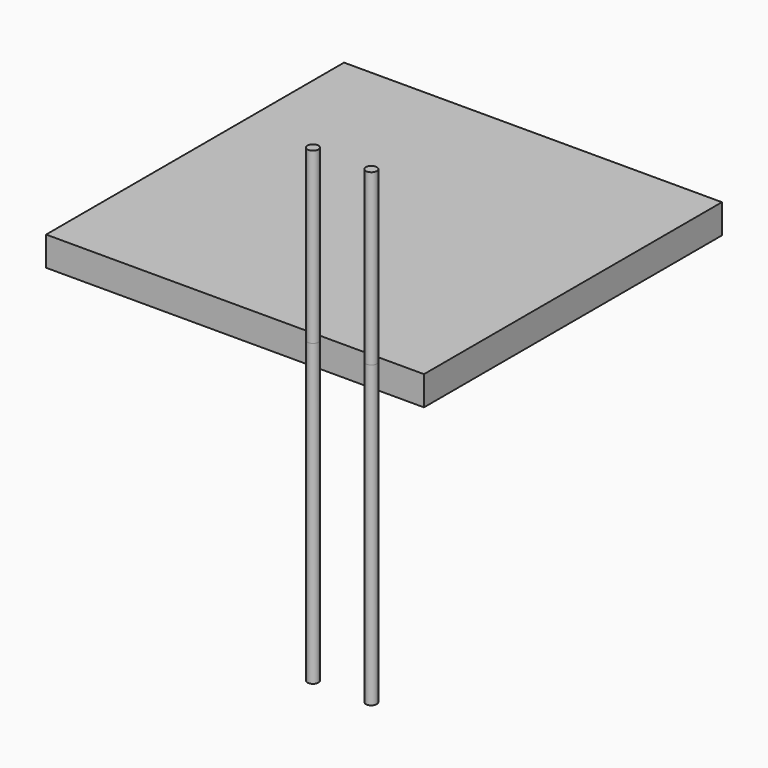
from build123d import *

# Parameters (mm, degrees)
F0_W     = 82.0087715983
F0_H     = 80.8207094669
F2_DEPTH = 65.024
F1_R     = 1.1777920209
F3_DEPTH = 56.642
F4_DEPTH = 58.674
F5_DEPTH = 36.83


with BuildPart() as f2:
    # F0 (on Top) → F2 (new body)
    with BuildSketch(Plane.XY):
        with Locations((-41.0043857992, 40.4103547335)):
            Rectangle(F0_W, F0_H)
    extrude(amount=F2_DEPTH)

    # F3 (add): a face of the model
    f3_faces = [f2.faces().sort_by_distance(p)[0] for p in [
        (-41.0043857992, 40.4103547335, 0),
    ]]
    extrude(f3_faces, amount=-F3_DEPTH)

    # F4 (cut): a face of the model
    f4_faces = [f2.faces().sort_by_distance(p)[0] for p in [
        (-41.0043857992, 40.4103547335, 0),
    ]]
    extrude(f4_faces, amount=-F4_DEPTH, mode=Mode.SUBTRACT)


with BuildPart() as f2b:
    # F1 (on face) → F2, piece 2 (new body)
    with BuildSketch(Plane.XY):
        with Locations((-9.7812432796, -2.0504272543)):
            Circle(F1_R)
    extrude(amount=F2_DEPTH)


with BuildPart() as f2c:
    # F1 (on face) → F2, piece 3 (new body)
    with BuildSketch(Plane.XY):
        with Locations((-22.4487129599, -2.0504272543)):
            Circle(F1_R)
    extrude(amount=F2_DEPTH)


with BuildPart() as f5:
    # F5 (new): a face of the model
    f5_faces = [f2c.part.faces().sort_by_distance(p)[0] for p in [
        (-22.4487129599, -2.0504272543, 65.024),
    ]]
    extrude(f5_faces, amount=F5_DEPTH)


with BuildPart() as f5b:
    # F5#2 (new): a face of the model
    f5_2_faces = [f2b.part.faces().sort_by_distance(p)[0] for p in [
        (-9.7812432796, -2.0504272543, 65.024),
    ]]
    extrude(f5_2_faces, amount=F5_DEPTH)


solid = Compound([f2.part, f2b.part, f2c.part, f5.part, f5b.part])
